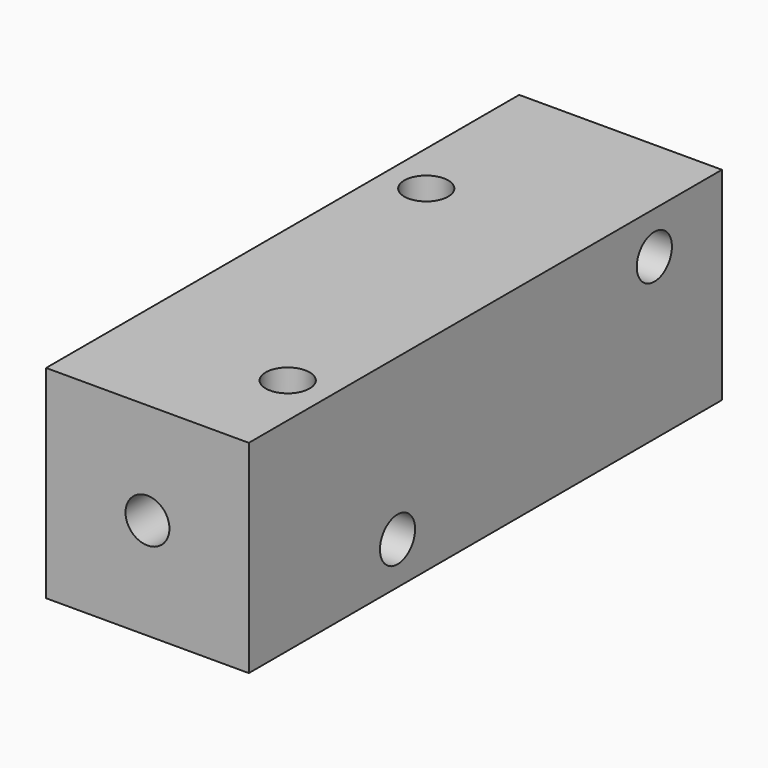
from build123d import *

# Parameters (mm, degrees)
CYLINDER024_R           = 1.3
CYLINDER024_DEPTH       = 40
CYLINDER024_PITCH_ANGLE = 90
CYLINDER023_R           = 1.3
CYLINDER023_DEPTH       = 40
CYLINDER023_PITCH_ANGLE = 90
CYLINDER022_R           = 1.3
CYLINDER022_DEPTH       = 70
CYLINDER022_ROLL_ANGLE  = 90
CYLINDER021_R           = 1.3
CYLINDER021_DEPTH       = 40
CYLINDER020_R           = 1.3
CYLINDER020_DEPTH       = 40
BOX017_W                = 12
BOX017_H                = 35
BOX017_DEPTH            = 12


with BuildPart() as cylinder105:
    # Cylinder024 → Cylinder024 (new body)
    with BuildSketch(Plane.XY):
        Circle(CYLINDER024_R)
    extrude(amount=CYLINDER024_DEPTH)


with BuildPart() as cylinder105_1:
    # Cylinder024 pitch: moved
    add(cylinder105.part.rotate(Axis((0, 0, 0), (0, 1, 0)), CYLINDER024_PITCH_ANGLE))


with BuildPart() as cylinder105_2:
    # Cylinder024 placement: moved
    add(cylinder105_1.part.moved(Location((-40, 12, 9.5))))


with BuildPart() as fusion007:
    # Cylinder023 → Cylinder023 (new body)
    with BuildSketch(Plane.XY):
        Circle(CYLINDER023_R)
    extrude(amount=CYLINDER023_DEPTH)


with BuildPart() as fusion007_1:
    # Cylinder023 pitch: moved
    add(fusion007.part.rotate(Axis((0, 0, 0), (0, 1, 0)), CYLINDER023_PITCH_ANGLE))


with BuildPart() as fusion007_2:
    # Cylinder023 placement: moved
    add(fusion007_1.part.moved(Location((-40, -7, 2.5))))

    # Fusion007: union Cylinder105
    add(cylinder105_2.part)


with BuildPart() as fusion008:
    # Cylinder022 → Cylinder022 (new body)
    with BuildSketch(Plane.XY):
        Circle(CYLINDER022_R)
    extrude(amount=CYLINDER022_DEPTH)


with BuildPart() as fusion008_1:
    # Cylinder022 roll: moved
    add(fusion008.part.rotate(Axis((0, 0, 0), (1, 0, 0)), CYLINDER022_ROLL_ANGLE))


with BuildPart() as fusion008_2:
    # Cylinder022 placement: moved
    add(fusion008_1.part.moved(Location((-24, 39, 6))))

    # Fusion008: union Fusion007
    add(fusion007_2.part)


with BuildPart() as fusion009:
    # Cylinder021 → Cylinder021 (new body)
    with BuildSketch(Plane(origin=(-27.5, 7, -15), x_dir=(1, 0, 0), z_dir=(0, 0, 1))):
        Circle(CYLINDER021_R)
    extrude(amount=CYLINDER021_DEPTH)

    # Fusion009: union Fusion008
    add(fusion008_2.part)


with BuildPart() as corner_block_holes:
    # Cylinder020 → Cylinder020 (new body)
    with BuildSketch(Plane(origin=(-20.5, -12, -15), x_dir=(1, 0, 0), z_dir=(0, 0, 1))):
        Circle(CYLINDER020_R)
    extrude(amount=CYLINDER020_DEPTH)

    # Fusion010: union Fusion009
    add(fusion009.part)


with BuildPart() as corner_block:
    # Box017 → Box017 (new body)
    with BuildSketch(Plane(origin=(-30, -18, 0), x_dir=(1, 0, 0), z_dir=(0, 0, 1))):
        with Locations((6, 17.5)):
            Rectangle(BOX017_W, BOX017_H)
    extrude(amount=BOX017_DEPTH)

    # Cut008: cut corner-block-holes
    add(corner_block_holes.part, mode=Mode.SUBTRACT)


solid = corner_block.part
